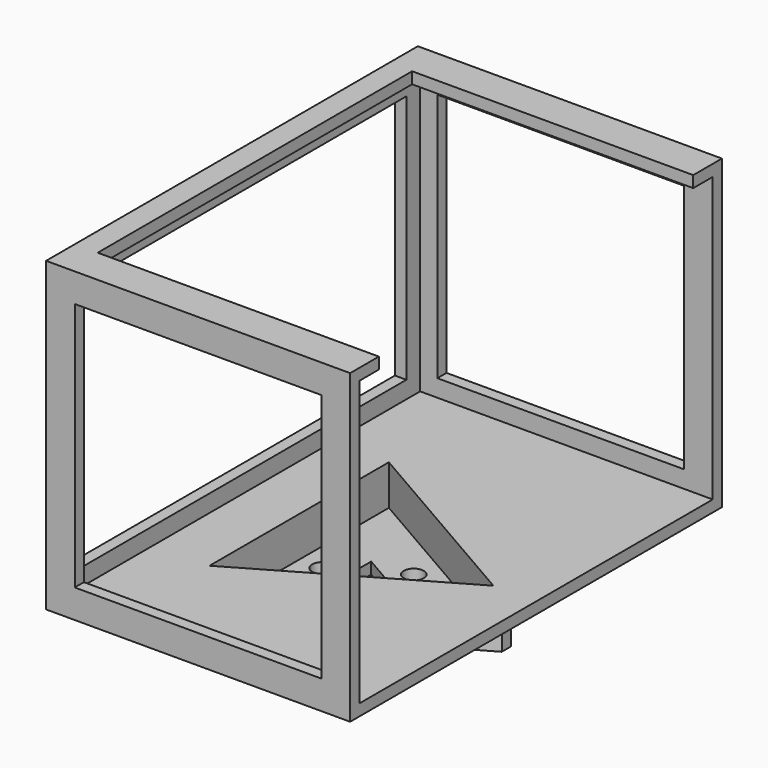
from build123d import *

# Parameters (mm, degrees)
SKETCH_R        = 1.75
PAD_DEPTH       = 2
PAD001_DEPTH    = 5
SKETCH002_W     = 53
SKETCH002_H     = 81
PAD002_DEPTH    = 2
SKETCH003_W     = 53
SKETCH003_H     = 81
SKETCH003_W_2   = 49
SKETCH003_H_2   = 77
PAD003_DEPTH    = 49.5
PAD004_DEPTH    = 2
SKETCH005_W     = 43
SKETCH005_H     = 43.5
POCKET_DEPTH    = 81
SKETCH006_W     = 71
SKETCH006_H     = 43.5
POCKET001_DEPTH = 2
SKETCH007_W     = 77
SKETCH007_H     = 49.5
POCKET002_DEPTH = 5


with BuildPart() as part:
    # Sketch → Pad (new body)
    with BuildSketch(Plane.XY):
        Polygon((-13.279056, 21), (-13.279056, -21), (-11.547005, -22), (24.826062, -1), (24.826062, 1), (-11.547005, 22), align=None)
        with Locations((-7.279056, 0)):
            Circle(SKETCH_R, mode=Mode.SUBTRACT)
        with Locations((3.639528, 6.303848)):
            Circle(SKETCH_R, mode=Mode.SUBTRACT)
        with Locations((3.639528, -6.303848)):
            Circle(SKETCH_R, mode=Mode.SUBTRACT)
        Polygon((6.558112, 0), (-3.279056, 5.679492), (-3.279056, -5.679492), align=None, mode=Mode.SUBTRACT)
    extrude(amount=PAD_DEPTH)

    # Sketch001 (on Face14 of Pad) → Pad001 (join)
    with BuildSketch(Plane.XY.offset(2)):
        Polygon((-13.279056, 21), (-11.547005, 22), (24.826062, 1), (24.826062, -1), (-11.547005, -22), (-13.279056, -21), align=None)
        Polygon((22.558112, 0), (-11.279056, 19.535898), (-11.279056, -19.535898), align=None, mode=Mode.SUBTRACT)
    extrude(amount=PAD001_DEPTH)

    # Sketch002 (on Face17 of Pad001) → Pad002 (join)
    with BuildSketch(Plane.XY.offset(7)):
        with Locations((3.5, 0)):
            Rectangle(SKETCH002_W, SKETCH002_H)
        Polygon((-11.279056, 19.535898), (22.558112, 0), (-11.279056, -19.535898), align=None, mode=Mode.SUBTRACT)
    extrude(amount=PAD002_DEPTH)

    # Sketch003 (on Face29 of Pad002) → Pad003 (join)
    with BuildSketch(Plane.XY.offset(9)):
        with Locations((3.5, 0)):
            Rectangle(SKETCH003_W, SKETCH003_H)
        with Locations((3.5, 0)):
            Rectangle(SKETCH003_W_2, SKETCH003_H_2, mode=Mode.SUBTRACT)
    extrude(amount=PAD003_DEPTH)

    # Sketch004 (on Face36 of Pad003) → Pad004 (join)
    with BuildSketch(Plane.XY.offset(58.5)):
        Polygon((-23, 40.5), (30, 40.5), (30, 34.25), (-19, 34.25), (-19, -34.25), (30, -34.25), (30, -40.5), (-23, -40.5), align=None)
    extrude(amount=PAD004_DEPTH)

    # Sketch005 (on Face32 of Pad004) → Pocket (cut)
    with BuildSketch(Plane.XZ.offset(40.5)):
        with Locations((3.5, 33.75)):
            Rectangle(SKETCH005_W, SKETCH005_H)
    extrude(amount=-POCKET_DEPTH, mode=Mode.SUBTRACT)

    # Sketch006 (on Face30 of Pocket) → Pocket001 (cut)
    with BuildSketch(Plane(origin=(-23, 0, 0), x_dir=(0, -1, 0), z_dir=(-1, 0, 0))):
        with Locations((0, 33.75)):
            Rectangle(SKETCH006_W, SKETCH006_H)
    extrude(amount=-POCKET001_DEPTH, mode=Mode.SUBTRACT)

    # Sketch007 (on Face31 of Pocket001) → Pocket002 (cut)
    with BuildSketch(Plane.YZ.offset(30)):
        with Locations((0, 33.75)):
            Rectangle(SKETCH007_W, SKETCH007_H)
    extrude(amount=-POCKET002_DEPTH, mode=Mode.SUBTRACT)


solid = part.part
